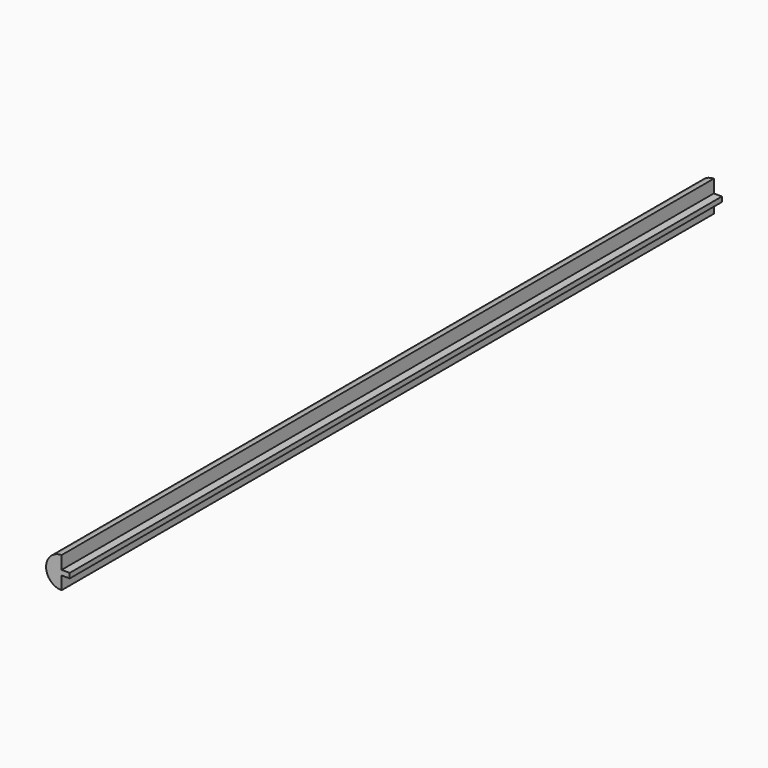
from build123d import *

# Parameters (mm, degrees)
PAD_DEPTH = 500


with BuildPart() as part:
    # Sketch002 → Pad (new body)
    with BuildSketch(Plane.XZ):
        with BuildLine():
            ThreePointArc((0, 19), (-9.5, 9.5), (0, 0))
            Line((0, 8), (0, 0))
            Line((5, 8), (0, 8))
            Line((5, 11), (5, 8))
            Line((0, 11), (5, 11))
            Line((0, 19), (0, 11))
        make_face()
    extrude(amount=-PAD_DEPTH)


solid = part.part
